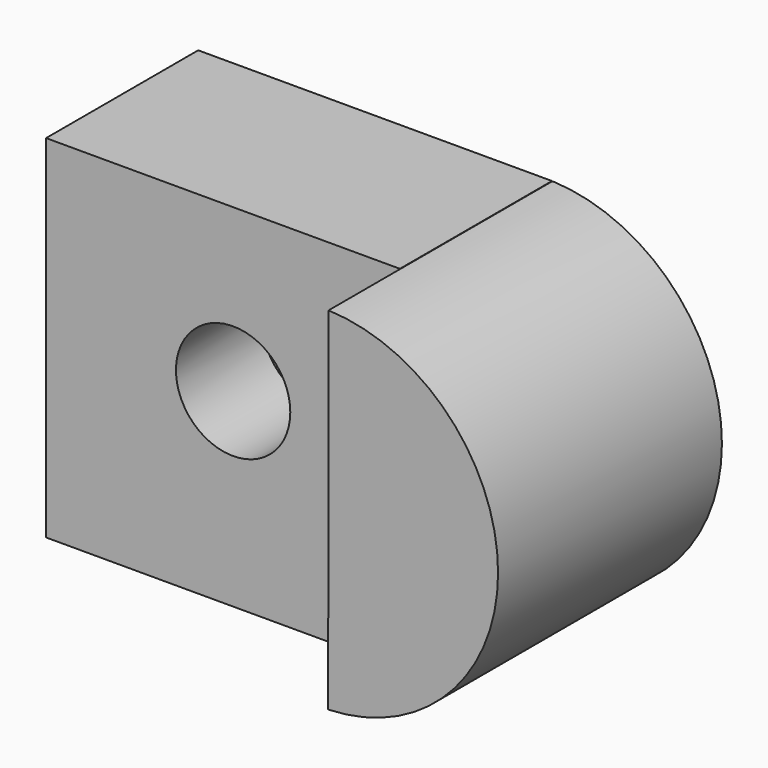
from build123d import *

# Parameters (mm, degrees)
F0_W          = 25.052054
F0_H          = 24.89548
F1_DEPTH      = 12.7
F1_DEPTH_BACK = 0.762
F3_DEPTH      = 19.05
F3_DEPTH_BACK = 0.762
F4_R          = 4.047603
F5_DEPTH      = 7.62


with BuildPart() as f1:
    # F0 (on Front) → F1 (new body, two sides)
    with BuildSketch(Plane.XZ) as f1_sk:
        with Locations((-21.920548, 12.44774)):
            Rectangle(F0_W, F0_H)
    extrude(amount=F1_DEPTH)
    extrude(f1_sk.sketch, amount=-F1_DEPTH_BACK)

    # F4 (on face) → F5 (cut)
    with BuildSketch(Plane.XZ.offset(12.7)):
        with Locations((-21.202855, 13.427026)):
            Circle(F4_R)
    extrude(amount=-F5_DEPTH, mode=Mode.SUBTRACT)


with BuildPart() as f3:
    # F2 (on Front) → F3 (new body, two sides)
    with BuildSketch(Plane.XZ) as f3_sk:
        with BuildLine():
            ThreePointArc((-9.394521, 0), (2.637058, 12.43272), (-9.363402, 24.89548))
            Line((-9.363402, 24.89548), (-9.394521, 0))
        make_face()
    extrude(amount=F3_DEPTH)
    extrude(f3_sk.sketch, amount=-F3_DEPTH_BACK)


solid = Compound([f1.part, f3.part])
